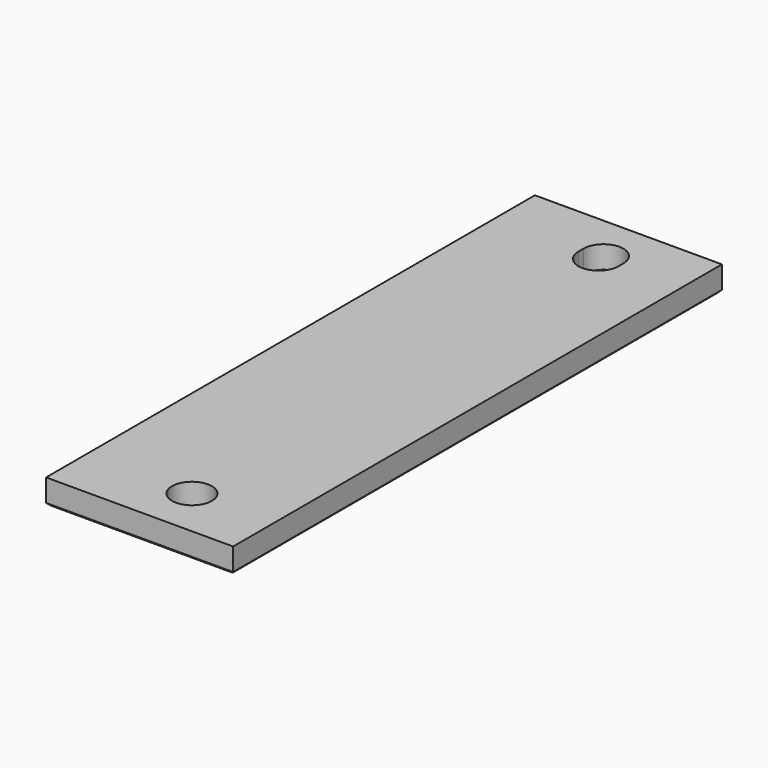
from build123d import *

# Parameters (mm, degrees)
F0_W    = 15
F0_H    = 49
F0_R    = 1.6
F3_SIZE = 0.2


with BuildPart() as f2:
    # F2: sweep along a path in F1
    with BuildLine(Plane.XZ) as f2_path:
        Line((0, 0), (0, 2))
    # F0 (on Top) → F2 (sweep)
    with BuildSketch(Plane.XY):
        with Locations((-1, 0)):
            Rectangle(F0_W, F0_H)
        with Locations((0, -20.5)):
            Circle(F0_R, mode=Mode.SUBTRACT)
        with BuildLine():
            Line((-1.6, 20.25), (-1.6, 20.75))
            ThreePointArc((-1.6, 20.75), (0, 22.35), (1.6, 20.75))
            Line((1.6, 20.75), (1.6, 20.25))
            ThreePointArc((1.6, 20.25), (0, 18.65), (-1.6, 20.25))
        make_face(mode=Mode.SUBTRACT)
    sweep(path=f2_path.line)

    # F3
    f3_edges = [f2.edges().sort_by_distance(p)[0] for p in [
        (6.5, 0, 0),
        (-1, -24.5, 0),
        (-1, 24.5, 0),
        (-8.5, 0, 0),
        (-1.6, -20.5, 0),
        (0, 18.65, 0),
        (1.6, 20.5, 0),
        (0, 22.35, 0),
        (-1.6, 20.5, 0),
    ]]
    chamfer(f3_edges, length=F3_SIZE)


solid = f2.part
